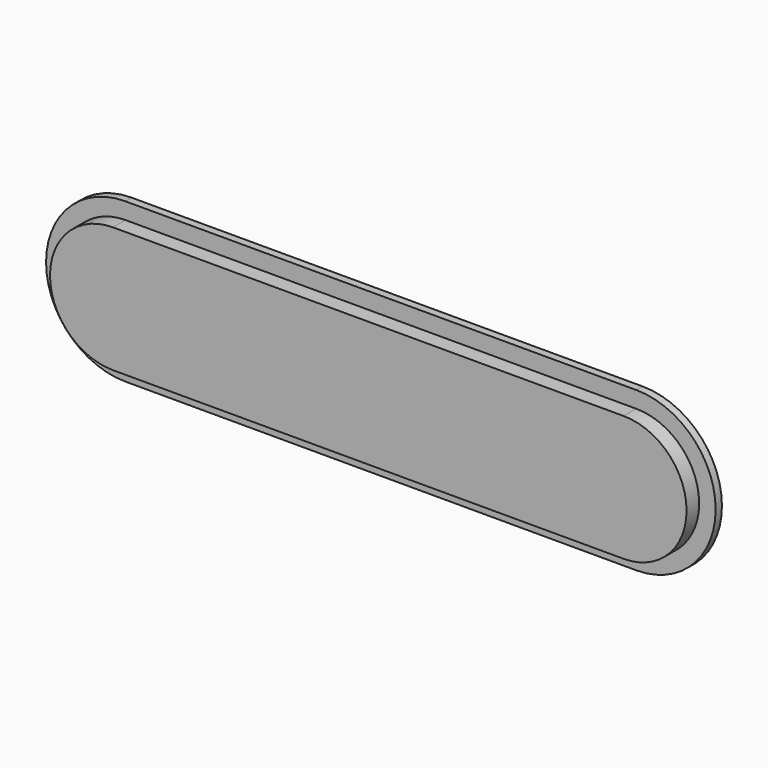
from build123d import *

# Parameters (mm, degrees)
F1_DEPTH = 1
F2_DEPTH = 3


with BuildPart() as f1:
    # F0 (on Front) → F1 (new body)
    with BuildSketch(Plane.XZ):
        with BuildLine():
            Line((-32.5, 8.5), (-32.5, 10.1))
            ThreePointArc((-32.5, 10.1), (-42.6, 0), (-32.5, -10.1))
            Line((-32.5, -10.1), (32.5, -10.1))
            Line((32.5, -10.1), (32.5, -8.5))
            Line((32.5, -8.5), (-32.5, -8.5))
            ThreePointArc((-32.5, -8.5), (-41, 0), (-32.5, 8.5))
        make_face()
        with BuildLine():
            Line((32.5, 10.1), (-32.5, 10.1))
            Line((-32.5, 10.1), (-32.5, 8.5))
            Line((-32.5, 8.5), (32.5, 8.5))
            ThreePointArc((32.5, 8.5), (41, 0), (32.5, -8.5))
            Line((32.5, -8.5), (32.5, -10.1))
            ThreePointArc((32.5, -10.1), (42.6, 0), (32.5, 10.1))
        make_face()
        with BuildLine():
            Line((32.5, 8.5), (-32.5, 8.5))
            Line((-32.5, 8.5), (-32.5, 8))
            Line((-32.5, 8), (32.5, 8))
            ThreePointArc((32.5, 8), (40.5, 0), (32.5, -8))
            Line((32.5, -8), (32.5, -8.5))
            ThreePointArc((32.5, -8.5), (41, 0), (32.5, 8.5))
        make_face()
        with BuildLine():
            Line((-32.5, 8), (-32.5, 8.5))
            ThreePointArc((-32.5, 8.5), (-41, 0), (-32.5, -8.5))
            Line((-32.5, -8.5), (32.5, -8.5))
            Line((32.5, -8.5), (32.5, -8))
            Line((32.5, -8), (-32.5, -8))
            ThreePointArc((-32.5, -8), (-40.5, 0), (-32.5, 8))
        make_face()
    extrude(amount=F1_DEPTH)

    # F0 (on Front) → F2 (join)
    with BuildSketch(Plane.XZ):
        with BuildLine():
            Line((32.5, 8), (-32.5, 8))
            ThreePointArc((-32.5, 8), (-40.5, 0), (-32.5, -8))
            Line((-32.5, -8), (32.5, -8))
            ThreePointArc((32.5, -8), (40.5, 0), (32.5, 8))
        make_face()
    extrude(amount=F2_DEPTH)


solid = f1.part
